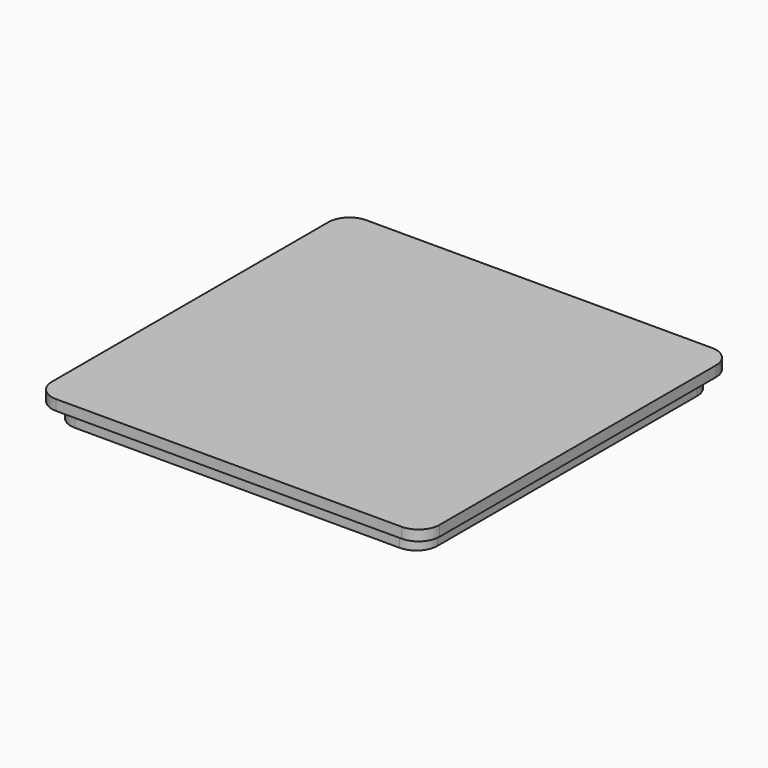
from build123d import *

# Parameters (mm, degrees)
F0_W     = 93.98
F0_H     = 93.98
F1_DEPTH = 2.54
F3_DEPTH = 3.81
F4_R     = 5.08


with BuildPart() as f1:
    # F0 (on Top) → F1 (new body)
    with BuildSketch(Plane.XY):
        Rectangle(F0_W, F0_H)
    extrude(amount=F1_DEPTH)

    # F2 (on Top) → F3 (join)
    with BuildSketch(Plane.XY):
        Polygon((-44.45, -44.45), (0, -44.45), (44.45, -44.45), (44.45, 44.45), (-44.45, 44.45), align=None)
    extrude(amount=-F3_DEPTH)

    # F4
    f4_edges = [f1.edges().sort_by_distance(p)[0] for p in [
        (44.45, -44.45, -1.905),
        (-44.45, -44.45, -1.905),
        (-44.45, 44.45, -1.905),
        (44.45, 44.45, -1.905),
        (-46.99, -46.99, 1.27),
        (46.99, -46.99, 1.27),
        (46.99, 46.99, 1.27),
        (-46.99, 46.99, 1.27),
    ]]
    fillet(f4_edges, radius=F4_R)


solid = f1.part
